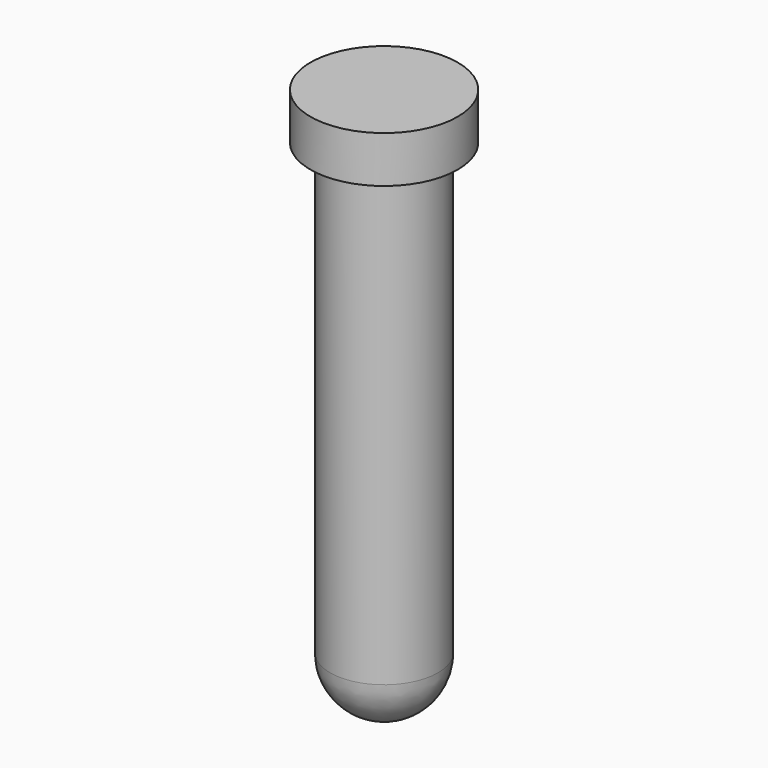
from build123d import *

# Parameters (mm, degrees)
F2_R     = 15
F2_R_2   = 11
F3_DEPTH = 9.5


with BuildPart() as f1:
    # F0 (on Front) → F1 (revolve)
    with BuildSketch(Plane.XZ):
        with BuildLine():
            Line((0, 65.475516), (0, -46.607636))
            ThreePointArc((0, -46.607636), (7.778175, -43.385811), (11, -35.607636))
            Line((11, -35.607636), (11, 65.475516))
            Line((11, 65.475516), (0, 65.475516))
        make_face()
    revolve(axis=Axis((0, 0, 9.43394), (0, 0, -1)))

    # F2 (on face) → F3 (join)
    with BuildSketch(Plane.XY.offset(65.475516)):
        Circle(F2_R)
        Circle(F2_R_2, mode=Mode.SUBTRACT)
    extrude(amount=-F3_DEPTH)


solid = f1.part
